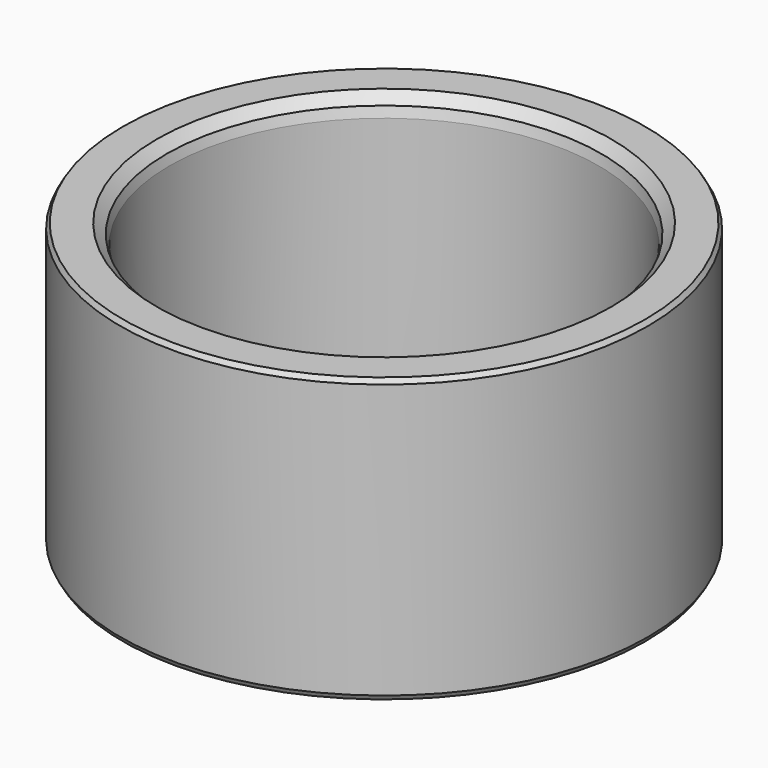
from build123d import *

# Parameters (mm, degrees)
F0_R     = 27
F0_R_2   = 21.97
F1_DEPTH = 29
F2_SIZE2 = 0.2886751346
F2_SIZE  = 0.5
F3_SIZE2 = 0.5773502692
F3_SIZE  = 1


with BuildPart() as f1:
    # F0 (on Top) → F1 (new body)
    with BuildSketch(Plane.XY):
        Circle(F0_R)
        Circle(F0_R_2, mode=Mode.SUBTRACT)
    extrude(amount=F1_DEPTH)

    # F2
    f2_edges = [f1.edges().sort_by_distance(p)[0] for p in [
        (-27, 0, 29),
        (-27, 0, 0),
    ]]
    f2_side = f1.faces().sort_by_distance((-27, 0, 14.5))[0]
    chamfer(f2_edges, length=F2_SIZE, length2=F2_SIZE2, reference=f2_side)

    # F3
    f3_edges = [f1.edges().sort_by_distance(p)[0] for p in [
        (-21.97, 0, 0),
    ]]
    f3_side = f1.faces().sort_by_distance((-21.97, 0, 14.5))[0]
    chamfer(f3_edges, length=F3_SIZE, length2=F3_SIZE2, reference=f3_side)

    # F4 (on Front) → F5 (revolve, cut)
    with BuildSketch(Plane.XZ):
        Polygon((-22.2379491924, 28), (-21.97, 27), (-21.97, 29), (-23.2379491924, 29), align=None)
    revolve(axis=Axis((0, 0, 15.0005389005), (0, 0, -1)), mode=Mode.SUBTRACT)


solid = f1.part
